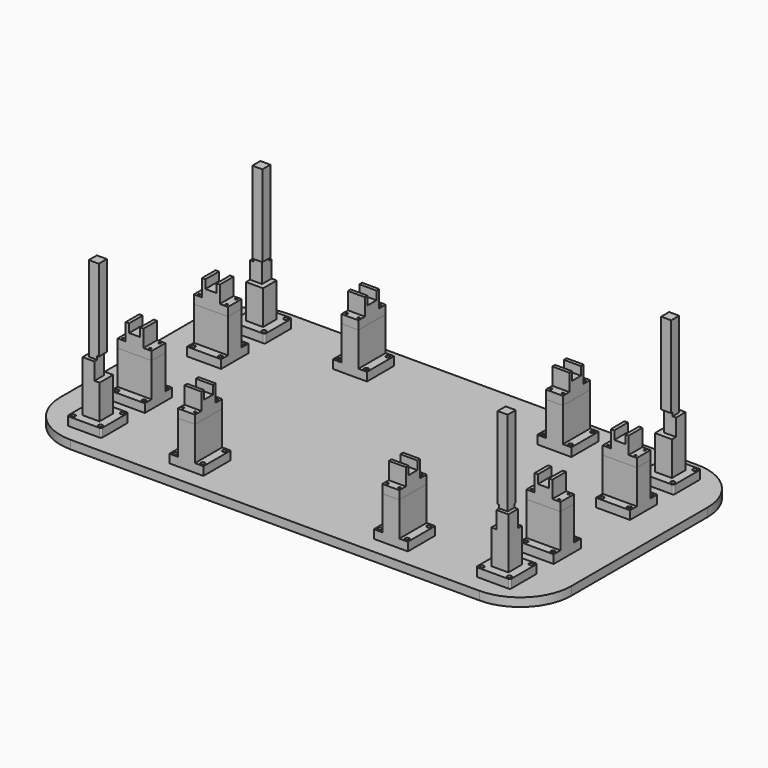
from build123d import *

# Parameters (mm, degrees)
F0_W      = 1500
F0_H      = 800
F1_DEPTH  = 25
F2_W      = 100
F2_H      = 100
F3_DEPTH  = 25
F4_R      = 5
F5_R      = 6
F6_DEPTH  = 40
F7_W      = 50
F7_H      = 50
F8_DEPTH  = 150
F9_W      = 29.5
F9_H      = 29.5
F11_DEPTH = 250
F10_W     = 50
F10_H     = 15
F10_W_2   = 10.25
F10_W_3   = 39.75
F12_DEPTH = 50
F13_W     = 29.5
F13_H     = 10
F14_DEPTH = 4.75
F15_W     = 29.5
F15_H     = 10
F16_DEPTH = 4.75
F17_W     = 35
F17_H     = 50
F18_DEPTH = 15
F19_W     = 24.75
F19_H     = 10
F20_DEPTH = 4.75
F21_W     = 35
F21_H     = 50
F22_DEPTH = 15
F23_W     = 24.75
F23_H     = 10
F24_DEPTH = 4.75
F25_W     = 100
F25_H     = 100
F25_R     = 6
F26_DEPTH = 25
F27_DEPTH = 15
F28_W     = 50
F28_H     = 100
F28_W_2   = 100
F28_H_2   = 50
F29_DEPTH = 100
F30_R     = 3
F31_DEPTH = 25
F30_W     = 50
F30_H     = 100
F30_W_2   = 100
F30_H_2   = 50
F32_DEPTH = 25
F33_W     = 50
F33_H     = 32.3
F34_DEPTH = 25
F33_H_2   = 10
F35_DEPTH = 50
F36_W     = 32.3
F36_H     = 50
F37_DEPTH = 25
F36_W_2   = 10
F38_DEPTH = 50
F39_R     = 150


with BuildPart() as f1:
    # F0 (on Top) → F1 (new body)
    with BuildSketch(Plane.XY):
        Rectangle(F0_W, F0_H)
    extrude(amount=F1_DEPTH)


with BuildPart() as f3:
    # F2 (on face) → F3 (new body)
    with BuildSketch(Plane.XY.offset(25)):
        with Locations((-600, 300)):
            Rectangle(F2_W, F2_H)
        with Locations((600, 300)):
            Rectangle(F2_W, F2_H)
        with Locations((-600, -300)):
            Rectangle(F2_W, F2_H)
        with Locations((600, -300)):
            Rectangle(F2_W, F2_H)
    extrude(amount=F3_DEPTH)

    # F4
    f4_edges = [f3.edges().sort_by_distance(p)[0] for p in [
        (-550, 250, 37.5),
        (-650, 250, 37.5),
        (-550, 350, 37.5),
        (-650, 350, 37.5),
        (-550, -250, 37.5),
        (-650, -250, 37.5),
        (-650, -350, 37.5),
        (-550, -350, 37.5),
        (550, -250, 37.5),
        (650, -250, 37.5),
        (550, -350, 37.5),
        (650, -350, 37.5),
        (650, 250, 37.5),
        (650, 350, 37.5),
        (550, 350, 37.5),
        (550, 250, 37.5),
    ]]
    fillet(f4_edges, radius=F4_R)


with BuildPart() as f6_tool:
    # F5 (on face) → F6 (new body)
    with BuildSketch(Plane.XY.offset(50)):
        with Locations((-640, 340)):
            Circle(F5_R)
        with Locations((-560, 340)):
            Circle(F5_R)
        with Locations((-640, 260)):
            Circle(F5_R)
        with BuildLine():
            ThreePointArc((-554, 260), (-560, 266), (-566, 260))
            ThreePointArc((-566, 260), (-560, 254), (-554, 260))
        make_face()
        with Locations((560, 260)):
            Circle(F5_R)
        with Locations((640, 260)):
            Circle(F5_R)
        with Locations((560, 340)):
            Circle(F5_R)
        with Locations((640, 340)):
            Circle(F5_R)
        with Locations((640, -340)):
            Circle(F5_R)
        with Locations((560, -340)):
            Circle(F5_R)
        with Locations((640, -260)):
            Circle(F5_R)
        with Locations((560, -260)):
            Circle(F5_R)
        with Locations((-560, -260)):
            Circle(F5_R)
        with Locations((-640, -260)):
            Circle(F5_R)
        with Locations((-560, -340)):
            Circle(F5_R)
        with Locations((-640, -340)):
            Circle(F5_R)
    extrude(amount=-F6_DEPTH)


with BuildPart() as f1_1:
    add(f1.part)

    # F6: cut by f6_tool
    add(f6_tool.part, mode=Mode.SUBTRACT)

    # F25 (on face) → F27 (cut)
    with BuildSketch(Plane.XY.offset(25)):
        with Locations((-640, 180)):
            Circle(F25_R)
        with Locations((-560, 180)):
            Circle(F25_R)
        with Locations((-560, 100)):
            Circle(F25_R)
        with Locations((-640, 100)):
            Circle(F25_R)
        with Locations((-640, -100)):
            Circle(F25_R)
        with Locations((-560, -100)):
            Circle(F25_R)
        with Locations((-640, -180)):
            Circle(F25_R)
        with Locations((-560, -180)):
            Circle(F25_R)
        with Locations((-340, -260)):
            Circle(F25_R)
        with Locations((-260, -260)):
            Circle(F25_R)
        with Locations((-340, -340)):
            Circle(F25_R)
        with Locations((-260, -340)):
            Circle(F25_R)
        with Locations((-340, 340)):
            Circle(F25_R)
        with Locations((-260, 340)):
            Circle(F25_R)
        with Locations((-340, 260)):
            Circle(F25_R)
        with Locations((-260, 260)):
            Circle(F25_R)
        with Locations((260, 340)):
            Circle(F25_R)
        with Locations((340, 340)):
            Circle(F25_R)
        with Locations((260, 260)):
            Circle(F25_R)
        with Locations((340, 260)):
            Circle(F25_R)
        with Locations((560, 180)):
            Circle(F25_R)
        with Locations((640, 180)):
            Circle(F25_R)
        with Locations((560, 100)):
            Circle(F25_R)
        with Locations((640, 100)):
            Circle(F25_R)
        with Locations((560, -100)):
            Circle(F25_R)
        with Locations((640, -100)):
            Circle(F25_R)
        with Locations((560, -180)):
            Circle(F25_R)
        with Locations((640, -180)):
            Circle(F25_R)
        with Locations((340, -260)):
            Circle(F25_R)
        with Locations((260, -260)):
            Circle(F25_R)
        with Locations((260, -340)):
            Circle(F25_R)
        with Locations((340, -340)):
            Circle(F25_R)
    extrude(amount=-F27_DEPTH, mode=Mode.SUBTRACT)

    # F39
    f39_edges = [f1_1.edges().sort_by_distance(p)[0] for p in [
        (-750, -400, 12.5),
        (750, -400, 12.5),
        (750, 400, 12.5),
        (-750, 400, 12.5),
    ]]
    fillet(f39_edges, radius=F39_R)


with BuildPart() as f3_1:
    add(f3.part)

    # F6: cut by f6_tool
    add(f6_tool.part, mode=Mode.SUBTRACT)

    # F7 (on face) → F8 (join)
    with BuildSketch(Plane.XY.offset(50)):
        with Locations((-600, 300)):
            Rectangle(F7_W, F7_H)
        with Locations((600, 300)):
            Rectangle(F7_W, F7_H)
        with Locations((-600, -300)):
            Rectangle(F7_W, F7_H)
        with Locations((600, -300)):
            Rectangle(F7_W, F7_H)
    extrude(amount=F8_DEPTH)

    # F9 (on face) → F11 (join)
    with BuildSketch(Plane.XY.offset(200)):
        with Locations((-600, 300)):
            Rectangle(F9_W, F9_H)
        with Locations((600, 300)):
            Rectangle(F9_W, F9_H)
        with Locations((-600, -300)):
            Rectangle(F9_W, F9_H)
        with Locations((600, -300)):
            Rectangle(F9_W, F9_H)
    extrude(amount=F11_DEPTH)

    # F10 (on face) → F12 (cut)
    with BuildSketch(Plane.XY.offset(200)):
        with Locations((-600, 282.5)):
            Rectangle(F10_W, F10_H)
        with Locations((580.125, 282.5)):
            Rectangle(F10_W_2, F10_H)
        with Locations((605.125, 282.5)):
            Rectangle(F10_W_3, F10_H)
        Polygon((-575, -290), (-575, -275), (-625, -275), (-625, -290), (-585.25, -290), align=None)
        with Locations((580.125, -282.5)):
            Rectangle(F10_W_2, F10_H)
        with Locations((605.125, -282.5)):
            Rectangle(F10_W_3, F10_H)
    extrude(amount=-F12_DEPTH, mode=Mode.SUBTRACT)

    # F13 (on face) → F14 (cut)
    with BuildSketch(Plane(origin=(0, -285.25, 0), x_dir=(-1, 0, 0), z_dir=(0, 1, 0))):
        with Locations((-600, 205)):
            Rectangle(F13_W, F13_H)
        with Locations((600, 205)):
            Rectangle(F13_W, F13_H)
    extrude(amount=-F14_DEPTH, mode=Mode.SUBTRACT)

    # F15 (on face) → F16 (cut)
    with BuildSketch(Plane.XZ.offset(-285.25)):
        with Locations((-600, 205)):
            Rectangle(F15_W, F15_H)
        with Locations((600, 205)):
            Rectangle(F15_W, F15_H)
    extrude(amount=-F16_DEPTH, mode=Mode.SUBTRACT)

    # F17 (on face) → F18 (cut)
    with BuildSketch(Plane.YZ.offset(-575)):
        with Locations((307.5, 175)):
            Rectangle(F17_W, F17_H)
        with Locations((-307.5, 175)):
            Rectangle(F17_W, F17_H)
    extrude(amount=-F18_DEPTH, mode=Mode.SUBTRACT)

    # F19 (on face) → F20 (cut)
    with BuildSketch(Plane.YZ.offset(-585.25)):
        with Locations((302.375, 205)):
            Rectangle(F19_W, F19_H)
        with Locations((-302.375, 205)):
            Rectangle(F19_W, F19_H)
    extrude(amount=-F20_DEPTH, mode=Mode.SUBTRACT)

    # F21 (on face) → F22 (cut)
    with BuildSketch(Plane(origin=(575, 0, 0), x_dir=(0, -1, 0), z_dir=(-1, 0, 0))):
        with Locations((307.5, 175)):
            Rectangle(F21_W, F21_H)
        with Locations((-307.5, 175)):
            Rectangle(F21_W, F21_H)
    extrude(amount=-F22_DEPTH, mode=Mode.SUBTRACT)

    # F23 (on face) → F24 (cut)
    with BuildSketch(Plane(origin=(585.25, 0, 0), x_dir=(0, -1, 0), z_dir=(-1, 0, 0))):
        with Locations((302.375, 205)):
            Rectangle(F23_W, F23_H)
        with Locations((-302.375, 205)):
            Rectangle(F23_W, F23_H)
    extrude(amount=-F24_DEPTH, mode=Mode.SUBTRACT)


with BuildPart() as f26:
    # F25 (on face) → F26 (new body)
    with BuildSketch(Plane.XY.offset(25)):
        with Locations((-600, 140)):
            Rectangle(F25_W, F25_H)
        with Locations((-640, 100)):
            Circle(F25_R, mode=Mode.SUBTRACT)
        with Locations((-560, 100)):
            Circle(F25_R, mode=Mode.SUBTRACT)
        with Locations((-640, 180)):
            Circle(F25_R, mode=Mode.SUBTRACT)
        with Locations((-560, 180)):
            Circle(F25_R, mode=Mode.SUBTRACT)
        with Locations((-300, -300)):
            Rectangle(F25_W, F25_H)
        with Locations((-340, -340)):
            Circle(F25_R, mode=Mode.SUBTRACT)
        with Locations((-340, -260)):
            Circle(F25_R, mode=Mode.SUBTRACT)
        with Locations((-260, -340)):
            Circle(F25_R, mode=Mode.SUBTRACT)
        with Locations((-260, -260)):
            Circle(F25_R, mode=Mode.SUBTRACT)
        with Locations((-600, -140)):
            Rectangle(F25_W, F25_H)
        with Locations((-640, -180)):
            Circle(F25_R, mode=Mode.SUBTRACT)
        with Locations((-560, -180)):
            Circle(F25_R, mode=Mode.SUBTRACT)
        with Locations((-640, -100)):
            Circle(F25_R, mode=Mode.SUBTRACT)
        with Locations((-560, -100)):
            Circle(F25_R, mode=Mode.SUBTRACT)
        with Locations((600, 140)):
            Rectangle(F25_W, F25_H)
        with Locations((560, 100)):
            Circle(F25_R, mode=Mode.SUBTRACT)
        with Locations((640, 100)):
            Circle(F25_R, mode=Mode.SUBTRACT)
        with Locations((560, 180)):
            Circle(F25_R, mode=Mode.SUBTRACT)
        with Locations((640, 180)):
            Circle(F25_R, mode=Mode.SUBTRACT)
        with Locations((600, -140)):
            Rectangle(F25_W, F25_H)
        with Locations((560, -180)):
            Circle(F25_R, mode=Mode.SUBTRACT)
        with Locations((640, -180)):
            Circle(F25_R, mode=Mode.SUBTRACT)
        with Locations((560, -100)):
            Circle(F25_R, mode=Mode.SUBTRACT)
        with Locations((640, -100)):
            Circle(F25_R, mode=Mode.SUBTRACT)
        with Locations((300, -300)):
            Rectangle(F25_W, F25_H)
        with Locations((260, -340)):
            Circle(F25_R, mode=Mode.SUBTRACT)
        with Locations((260, -260)):
            Circle(F25_R, mode=Mode.SUBTRACT)
        with Locations((340, -340)):
            Circle(F25_R, mode=Mode.SUBTRACT)
        with Locations((340, -260)):
            Circle(F25_R, mode=Mode.SUBTRACT)
        with Locations((300, 300)):
            Rectangle(F25_W, F25_H)
        with Locations((260, 260)):
            Circle(F25_R, mode=Mode.SUBTRACT)
        with Locations((260, 340)):
            Circle(F25_R, mode=Mode.SUBTRACT)
        with Locations((340, 260)):
            Circle(F25_R, mode=Mode.SUBTRACT)
        with Locations((340, 340)):
            Circle(F25_R, mode=Mode.SUBTRACT)
        with Locations((-300, 300)):
            Rectangle(F25_W, F25_H)
        with Locations((-340, 260)):
            Circle(F25_R, mode=Mode.SUBTRACT)
        with Locations((-340, 340)):
            Circle(F25_R, mode=Mode.SUBTRACT)
        with Locations((-260, 260)):
            Circle(F25_R, mode=Mode.SUBTRACT)
        with Locations((-260, 340)):
            Circle(F25_R, mode=Mode.SUBTRACT)
    extrude(amount=F26_DEPTH)

    # F28 (on face) → F29 (join)
    with BuildSketch(Plane.XY.offset(50)):
        with Locations((-300, -300)):
            Rectangle(F28_W, F28_H)
        with Locations((-600, -140)):
            Rectangle(F28_W_2, F28_H_2)
        with Locations((-600, 140)):
            Rectangle(F28_W_2, F28_H_2)
        with Locations((600, 140)):
            Rectangle(F28_W_2, F28_H_2)
        with Locations((600, -140)):
            Rectangle(F28_W_2, F28_H_2)
        with Locations((300, -300)):
            Rectangle(F28_W, F28_H)
        with Locations((300, 300)):
            Rectangle(F28_W, F28_H)
        with Locations((-300, 300)):
            Rectangle(F28_W, F28_H)
    extrude(amount=F29_DEPTH)

    # F30 (on face) → F31 (cut)
    with BuildSketch(Plane.XY.offset(150)):
        with Locations((-317.5, -340)):
            Circle(F30_R)
        with Locations((-282.5, -340)):
            Circle(F30_R)
        with Locations((-282.5, -260)):
            Circle(F30_R)
        with Locations((-317.5, -260)):
            Circle(F30_R)
        with Locations((-640, -157.5)):
            Circle(F30_R)
        with Locations((-640, -122.5)):
            Circle(F30_R)
        with Locations((-560, -157.5)):
            Circle(F30_R)
        with Locations((-560, -122.5)):
            Circle(F30_R)
        with Locations((-640, 122.5)):
            Circle(F30_R)
        with Locations((-640, 157.5)):
            Circle(F30_R)
        with Locations((-560, 122.5)):
            Circle(F30_R)
        with Locations((-560, 157.5)):
            Circle(F30_R)
        with Locations((-317.5, 260)):
            Circle(F30_R)
        with Locations((-282.5, 260)):
            Circle(F30_R)
        with Locations((-282.5, 340)):
            Circle(F30_R)
        with Locations((-317.5, 340)):
            Circle(F30_R)
        with Locations((282.5, -340)):
            Circle(F30_R)
        with Locations((282.5, -260)):
            Circle(F30_R)
        with Locations((317.5, -260)):
            Circle(F30_R)
        with Locations((317.5, -340)):
            Circle(F30_R)
        with Locations((282.5, 260)):
            Circle(F30_R)
        with Locations((317.5, 260)):
            Circle(F30_R)
        with Locations((282.5, 340)):
            Circle(F30_R)
        with Locations((317.5, 340)):
            Circle(F30_R)
        with Locations((560, -157.5)):
            Circle(F30_R)
        with Locations((560, -122.5)):
            Circle(F30_R)
        with Locations((640, -157.5)):
            Circle(F30_R)
        with Locations((640, -122.5)):
            Circle(F30_R)
        with Locations((560, 122.5)):
            Circle(F30_R)
        with Locations((560, 157.5)):
            Circle(F30_R)
        with Locations((640, 157.5)):
            Circle(F30_R)
        with Locations((640, 122.5)):
            Circle(F30_R)
    extrude(amount=-F31_DEPTH, mode=Mode.SUBTRACT)


with BuildPart() as f32:
    # F30 (on face) → F32 (new body)
    with BuildSketch(Plane.XY.offset(150)):
        with Locations((-300, -300)):
            Rectangle(F30_W, F30_H)
        with Locations((-317.5, -340)):
            Circle(F30_R, mode=Mode.SUBTRACT)
        with Locations((-282.5, -340)):
            Circle(F30_R, mode=Mode.SUBTRACT)
        with Locations((-317.5, -260)):
            Circle(F30_R, mode=Mode.SUBTRACT)
        with Locations((-282.5, -260)):
            Circle(F30_R, mode=Mode.SUBTRACT)
        with Locations((300, -300)):
            Rectangle(F30_W, F30_H)
        with Locations((282.5, -340)):
            Circle(F30_R, mode=Mode.SUBTRACT)
        with Locations((317.5, -340)):
            Circle(F30_R, mode=Mode.SUBTRACT)
        with Locations((282.5, -260)):
            Circle(F30_R, mode=Mode.SUBTRACT)
        with Locations((317.5, -260)):
            Circle(F30_R, mode=Mode.SUBTRACT)
        with Locations((-300, 300)):
            Rectangle(F30_W, F30_H)
        with Locations((-317.5, 260)):
            Circle(F30_R, mode=Mode.SUBTRACT)
        with Locations((-282.5, 260)):
            Circle(F30_R, mode=Mode.SUBTRACT)
        with Locations((-317.5, 340)):
            Circle(F30_R, mode=Mode.SUBTRACT)
        with Locations((-282.5, 340)):
            Circle(F30_R, mode=Mode.SUBTRACT)
        with Locations((300, 300)):
            Rectangle(F30_W, F30_H)
        with Locations((282.5, 260)):
            Circle(F30_R, mode=Mode.SUBTRACT)
        with Locations((317.5, 260)):
            Circle(F30_R, mode=Mode.SUBTRACT)
        with Locations((282.5, 340)):
            Circle(F30_R, mode=Mode.SUBTRACT)
        with Locations((317.5, 340)):
            Circle(F30_R, mode=Mode.SUBTRACT)
        with Locations((-600, -140)):
            Rectangle(F30_W_2, F30_H_2)
        with Locations((-640, -157.5)):
            Circle(F30_R, mode=Mode.SUBTRACT)
        with Locations((-560, -157.5)):
            Circle(F30_R, mode=Mode.SUBTRACT)
        with Locations((-640, -122.5)):
            Circle(F30_R, mode=Mode.SUBTRACT)
        with Locations((-560, -122.5)):
            Circle(F30_R, mode=Mode.SUBTRACT)
        with Locations((-600, 140)):
            Rectangle(F30_W_2, F30_H_2)
        with Locations((-640, 122.5)):
            Circle(F30_R, mode=Mode.SUBTRACT)
        with Locations((-560, 122.5)):
            Circle(F30_R, mode=Mode.SUBTRACT)
        with Locations((-640, 157.5)):
            Circle(F30_R, mode=Mode.SUBTRACT)
        with Locations((-560, 157.5)):
            Circle(F30_R, mode=Mode.SUBTRACT)
        with Locations((600, 140)):
            Rectangle(F30_W_2, F30_H_2)
        with Locations((560, 122.5)):
            Circle(F30_R, mode=Mode.SUBTRACT)
        with Locations((640, 122.5)):
            Circle(F30_R, mode=Mode.SUBTRACT)
        with Locations((560, 157.5)):
            Circle(F30_R, mode=Mode.SUBTRACT)
        with Locations((640, 157.5)):
            Circle(F30_R, mode=Mode.SUBTRACT)
        with Locations((600, -140)):
            Rectangle(F30_W_2, F30_H_2)
        with Locations((560, -157.5)):
            Circle(F30_R, mode=Mode.SUBTRACT)
        with Locations((640, -157.5)):
            Circle(F30_R, mode=Mode.SUBTRACT)
        with Locations((560, -122.5)):
            Circle(F30_R, mode=Mode.SUBTRACT)
        with Locations((640, -122.5)):
            Circle(F30_R, mode=Mode.SUBTRACT)
    extrude(amount=F32_DEPTH)

    # F33 (on face) → F34 (join)
    with BuildSketch(Plane.XY.offset(175)):
        with Locations((-300, -300)):
            Rectangle(F33_W, F33_H)
        with Locations((300, -300)):
            Rectangle(F33_W, F33_H)
        with Locations((-300, 300)):
            Rectangle(F33_W, F33_H)
        with Locations((300, 300)):
            Rectangle(F33_W, F33_H)
    extrude(amount=F34_DEPTH)

    # F33 (on face) → F35 (join)
    with BuildSketch(Plane.XY.offset(175)):
        with Locations((-300, -278.85)):
            Rectangle(F33_W, F33_H_2)
        with Locations((-300, -321.15)):
            Rectangle(F33_W, F33_H_2)
        with Locations((300, -278.85)):
            Rectangle(F33_W, F33_H_2)
        with Locations((300, -321.15)):
            Rectangle(F33_W, F33_H_2)
        with Locations((-300, 278.85)):
            Rectangle(F33_W, F33_H_2)
        with Locations((-300, 321.15)):
            Rectangle(F33_W, F33_H_2)
        with Locations((300, 321.15)):
            Rectangle(F33_W, F33_H_2)
        with Locations((300, 278.85)):
            Rectangle(F33_W, F33_H_2)
    extrude(amount=F35_DEPTH)

    # F36 (on face) → F37 (join)
    with BuildSketch(Plane.XY.offset(175)):
        with Locations((-600, -140)):
            Rectangle(F36_W, F36_H)
        with Locations((-600, 140)):
            Rectangle(F36_W, F36_H)
        with Locations((600, 140)):
            Rectangle(F36_W, F36_H)
        with Locations((600, -140)):
            Rectangle(F36_W, F36_H)
    extrude(amount=F37_DEPTH)

    # F36 (on face) → F38 (join)
    with BuildSketch(Plane.XY.offset(175)):
        with Locations((-621.15, 140)):
            Rectangle(F36_W_2, F36_H)
        with Locations((-578.85, 140)):
            Rectangle(F36_W_2, F36_H)
        with Locations((-621.15, -140)):
            Rectangle(F36_W_2, F36_H)
        with Locations((-578.85, -140)):
            Rectangle(F36_W_2, F36_H)
        with Locations((578.85, 140)):
            Rectangle(F36_W_2, F36_H)
        with Locations((621.15, 140)):
            Rectangle(F36_W_2, F36_H)
        with Locations((621.15, -140)):
            Rectangle(F36_W_2, F36_H)
        with Locations((578.85, -140)):
            Rectangle(F36_W_2, F36_H)
    extrude(amount=F38_DEPTH)


solid = Compound([f1_1.part, f3_1.part, f26.part, f32.part])
